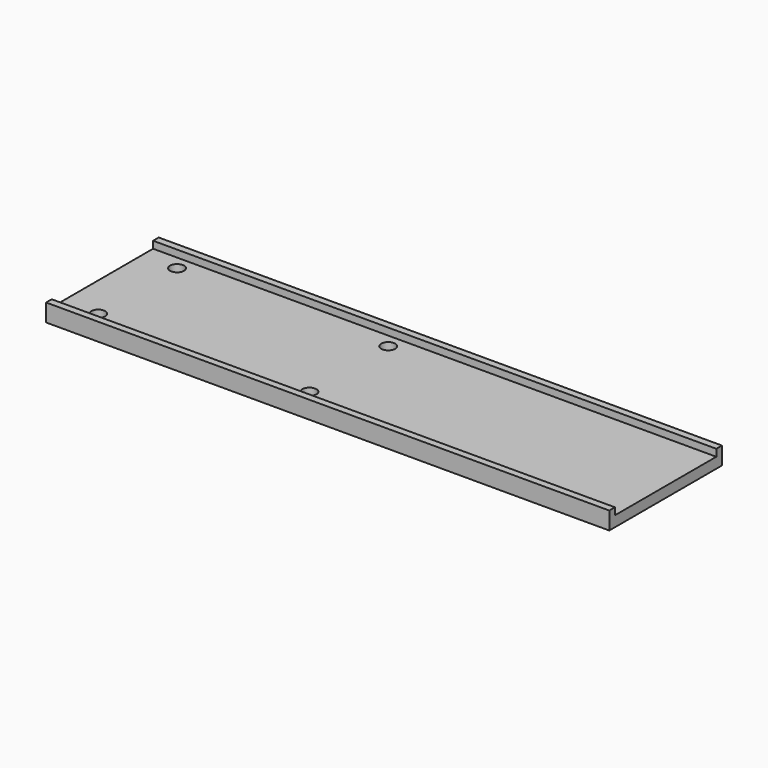
from build123d import *

# Parameters (mm, degrees)
F0_W     = 203.2
F0_H     = 50.8
F1_DEPTH = 3.81
F2_W     = 203.2
F2_H     = 2.54
F3_DEPTH = 2.54
F4_R     = 2.54
F5_DEPTH = 3.81


with BuildPart() as f1:
    # F0 (on Top) → F1 (new body)
    with BuildSketch(Plane.XY):
        with Locations((1.766223, -10.64699)):
            Rectangle(F0_W, F0_H)
    extrude(amount=F1_DEPTH)

    # F2 (on face) → F3 (join)
    with BuildSketch(Plane.XY.offset(3.81)):
        with Locations((1.766223, 13.48301)):
            Rectangle(F2_W, F2_H)
        with Locations((1.766223, -34.77699)):
            Rectangle(F2_W, F2_H)
    extrude(amount=F3_DEPTH)

    # F4 (on face) → F5 (cut)
    with BuildSketch(Plane.XY.offset(3.81)):
        with Locations((-87.133777, 7.13301)):
            Circle(F4_R)
        with Locations((-87.133777, -28.42699)):
            Circle(F4_R)
        with Locations((-10.933777, 7.13301)):
            Circle(F4_R)
        with Locations((-10.933777, -28.42699)):
            Circle(F4_R)
    extrude(amount=-F5_DEPTH, mode=Mode.SUBTRACT)


solid = f1.part
